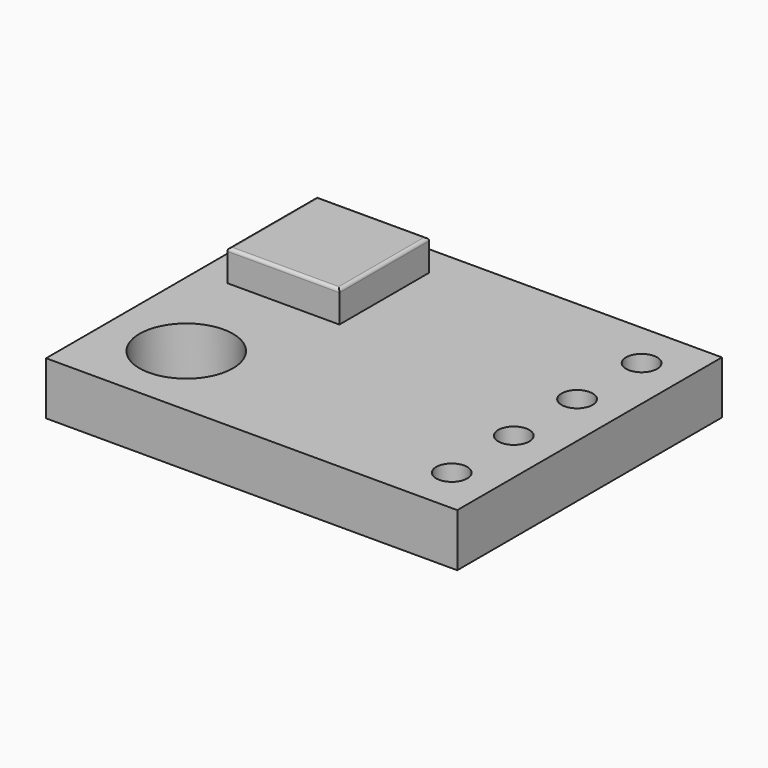
from build123d import *

# Parameters (mm, degrees)
F0_W     = 13.2
F0_H     = 10.62
F1_DEPTH = 1.7
F2_R     = 0.5
F2_R_2   = 1.5
F3_DEPTH = 1.701
F4_W     = 3.6
F4_H     = 3.6
F5_DEPTH = 1
F6_R     = 0.1


with BuildPart() as f1:
    # F0 (on Top) → F1 (new body)
    with BuildSketch(Plane.XY):
        Rectangle(F0_W, F0_H)
    extrude(amount=F1_DEPTH)

    # F2 (on face) → F3 (cut, through all)
    with BuildSketch(Plane.XY.offset(1.7)):
        with Locations((5.222315, 3.81)):
            Circle(F2_R)
        with Locations((5.182661, 1.27)):
            Circle(F2_R)
        with Locations((5.182661, -1.27)):
            Circle(F2_R)
        with Locations((5.222315, -3.81)):
            Circle(F2_R)
        with Locations((-4.1, -2.81)):
            Circle(F2_R_2)
    extrude(amount=-F3_DEPTH, mode=Mode.SUBTRACT)

    # F4 (on face) → F5 (join)
    with BuildSketch(Plane.XY.offset(1.7)):
        with Locations((-3.8, 2.51)):
            Rectangle(F4_W, F4_H)
    extrude(amount=F5_DEPTH)

    # F6
    f6_edges = [f1.edges().sort_by_distance(p)[0] for p in [
        (-3.8, 0.71, 2.7),
        (-2, 2.51, 2.7),
        (-5.6, 2.51, 2.7),
        (-3.8, 4.31, 2.7),
    ]]
    fillet(f6_edges, radius=F6_R)


solid = f1.part
